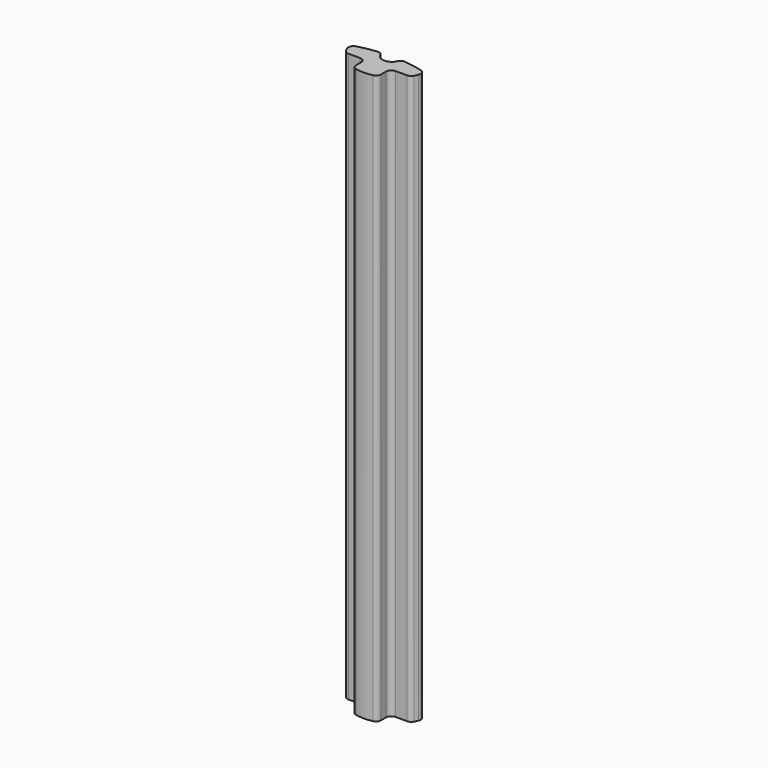
from build123d import *

# Parameters (mm, degrees)
CYLINDER002_R     = 0.9
CYLINDER002_DEPTH = 55
BOX008_W          = 2.42
BOX008_H          = 1.69
BOX008_DEPTH      = 55
BOX007_W          = 2.42
BOX007_H          = 1.69
BOX007_DEPTH      = 55
EXTRUDE011_DEPTH  = 55
FILLET011_R       = 0.5


with BuildPart() as cilindro001:
    # Cylinder002 → Cylinder002 (new body)
    with BuildSketch(Plane(origin=(0, 12.21, 0), x_dir=(1, 0, 0), z_dir=(0, 0, 1))):
        Circle(CYLINDER002_R)
    extrude(amount=CYLINDER002_DEPTH)


with BuildPart() as cubo_der001:
    # Box008 → Box008 (new body)
    with BuildSketch(Plane(origin=(1.21, 8.809483, 0), x_dir=(1, 0, 0), z_dir=(0, 0, 1))):
        with Locations((1.21, 0.845)):
            Rectangle(BOX008_W, BOX008_H)
    extrude(amount=BOX008_DEPTH)


with BuildPart() as obj1:
    # Box007 → Box007 (new body)
    with BuildSketch(Plane(origin=(-3.63, 8.809483, 0), x_dir=(1, 0, 0), z_dir=(0, 0, 1))):
        with Locations((1.21, 0.845)):
            Rectangle(BOX007_W, BOX007_H)
    extrude(amount=BOX007_DEPTH)


with BuildPart() as obj2:
    # Sketch012 → Extrude011 (new body)
    with BuildSketch(Plane.XY):
        with BuildLine():
            ThreePointArc((-3.632024, 11.657294), (0, 8.809483), (3.632024, 11.657294))
            ThreePointArc((3.632024, 11.657294), (0, 12.21), (-3.632024, 11.657294))
        make_face()
    extrude(amount=EXTRUDE011_DEPTH)

    # Cut007: cut obj1
    add(obj1.part, mode=Mode.SUBTRACT)

    # Cut008: cut Cubo der001
    add(cubo_der001.part, mode=Mode.SUBTRACT)

    # Cut009: cut Cilindro001
    add(cilindro001.part, mode=Mode.SUBTRACT)

    # Fillet011
    fillet011_edges = [obj2.edges().sort_by_distance(p)[0] for p in [
        (-3.128114, 10.499483, 27.5),
        (-3.632024, 11.657294, 27.5),
        (-1.21, 10.499483, 27.5),
        (-0.899389, 12.17683, 27.5),
        (3.128114, 10.499483, 27.5),
        (1.21, 10.499483, 27.5),
        (1.21, 9.010627, 27.5),
        (-1.21, 9.010627, 27.5),
        (0.899389, 12.17683, 27.5),
        (3.632024, 11.657294, 27.5),
    ]]
    fillet(fillet011_edges, radius=FILLET011_R)


with BuildPart() as obj2_1:
    # Clone018 placement: moved
    add(obj2.part.moved(Location((0, -21.2, 0))))


solid = obj2_1.part
